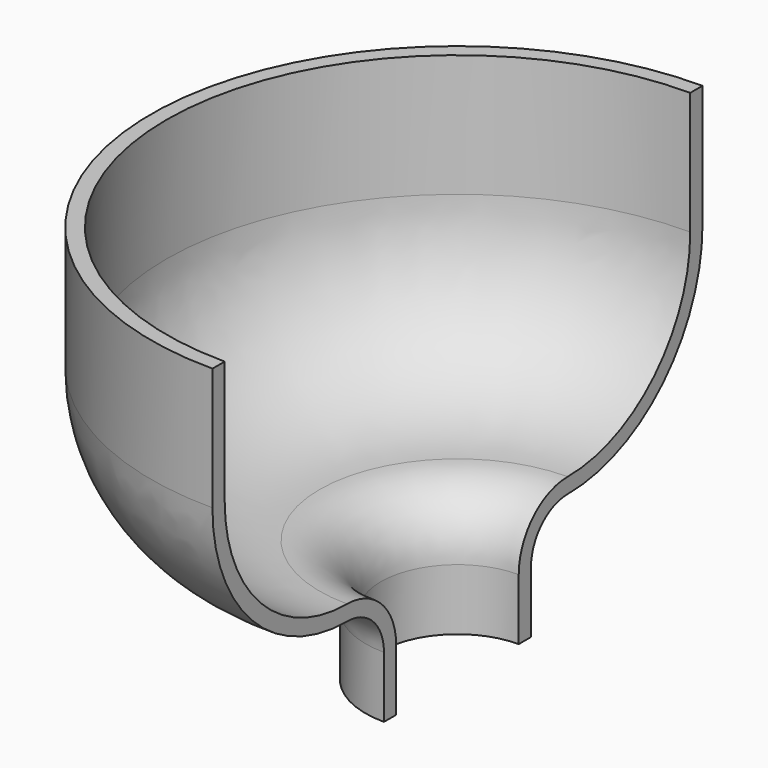
from build123d import *

# Parameters (mm, degrees)
F1_ANGLE = 180


with BuildPart() as f1:
    # F0 (on Right) → F1 (revolve)
    with BuildSketch(Plane.YZ):
        with BuildLine():
            Line((-60.325, -6.35), (-60.325, 19.05))
            Line((-60.325, 19.05), (-63.5, 19.05))
            Line((-63.5, 19.05), (-63.5, -6.35))
            ThreePointArc((-63.5, -6.35), (-53.270704, -31.045704), (-28.575, -41.275))
            ThreePointArc((-28.575, -41.275), (-21.839808, -44.064808), (-19.05, -50.8))
            Line((-19.05, -50.8), (-19.05, -63.5))
            Line((-19.05, -63.5), (-15.875, -63.5))
            Line((-15.875, -63.5), (-15.875, -50.8))
            ThreePointArc((-15.875, -50.8), (-19.594744, -41.819744), (-28.575, -38.1))
            ThreePointArc((-28.575, -38.1), (-51.02564, -28.80064), (-60.325, -6.35))
        make_face()
    revolve(axis=Axis((0, 0, -17.790621), (0, 0, -1)), revolution_arc=F1_ANGLE)


solid = f1.part
